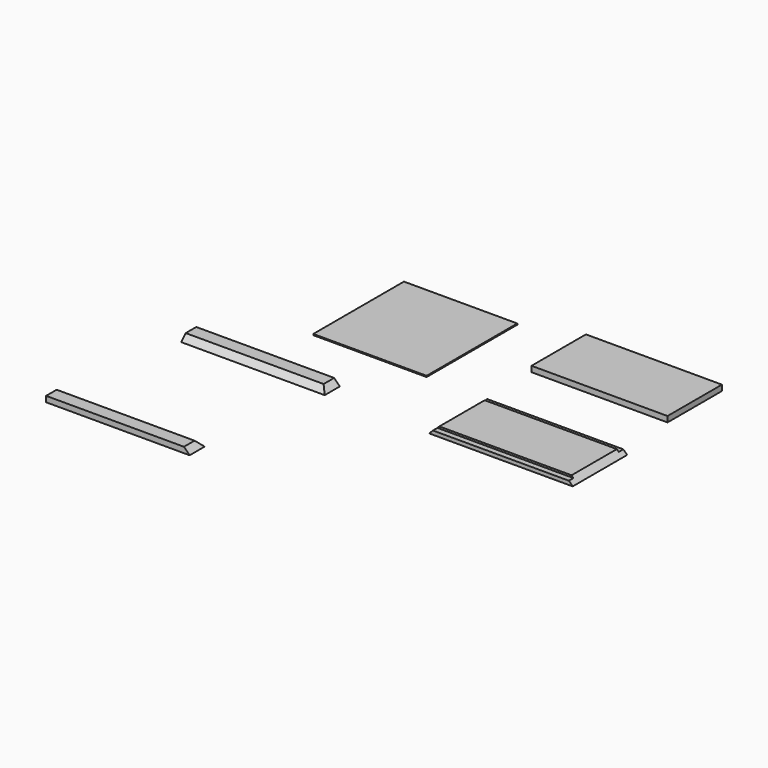
from build123d import *

# Parameters (mm, degrees)
F0_W      = 360
F0_H      = 180
F1_DEPTH  = 15
F2_W      = 350
F2_H      = 180
F3_DEPTH  = 15
F5_DEPTH  = 180
F6_W      = 350
F6_H      = 15
F6_W_2    = 38.8306975365
F6_W_3    = 75.8310049772
F7_DEPTH  = 5
F8_W      = 350
F8_H      = 15
F8_W_2    = 57.6145350933
F8_W_3    = 54.2813926935
F9_DEPTH  = 5
F10_W     = 300
F10_H     = 300
F11_DEPTH = 3
F12_W     = 380
F12_H     = 50
F13_DEPTH = 15
F15_DEPTH = 551
F17_DEPTH = 79
F18_W     = 380
F18_H     = 50
F19_DEPTH = 15
F21_DEPTH = 76
F23_DEPTH = 513.3


with BuildPart() as f1:
    # F0 (on Top) → F1 (new body)
    with BuildSketch(Plane.XY):
        with Locations((-75.4632055759, 83.1025231441)):
            Rectangle(F0_W, F0_H)
    extrude(amount=F1_DEPTH)


with BuildPart() as f3:
    # F2 (on Top) → F3 (new body)
    with BuildSketch(Plane.XY):
        with Locations((-59.6732020378, -262.903097868)):
            Rectangle(F2_W, F2_H)
    extrude(amount=F3_DEPTH)

    # F4 (on face) → F5 (join)
    with BuildSketch(Plane.XZ.offset(352.903097868)):
        Polygon((-249.6732020378, 0), (-234.6732020378, 0), (-234.6732020378, 15), align=None)
        Polygon((115.3267979622, 15), (115.3267979622, 0), (130.3267979622, 0), align=None)
    extrude(amount=-F5_DEPTH)

    # F6 (on face) → F7 (cut)
    with BuildSketch(Plane.XY.offset(15)):
        with Locations((-59.6732020378, -180.403097868)):
            Rectangle(F6_W, F6_H)
        with Locations((-254.088550806, -180.403097868)):
            Rectangle(F6_W_2, F6_H)
        with Locations((153.2423004508, -180.403097868)):
            Rectangle(F6_W_3, F6_H)
    extrude(amount=-F7_DEPTH, mode=Mode.SUBTRACT)

    # F8 (on face) → F9 (cut)
    with BuildSketch(Plane.XY.offset(15)):
        with Locations((-59.6732020378, -345.403097868)):
            Rectangle(F8_W, F8_H)
        with Locations((-263.4804695845, -345.403097868)):
            Rectangle(F8_W_2, F8_H)
        with Locations((142.4674943089, -345.403097868)):
            Rectangle(F8_W_3, F8_H)
    extrude(amount=-F9_DEPTH, mode=Mode.SUBTRACT)


with BuildPart() as f11:
    # F10 (on Top) → F11 (new body)
    with BuildSketch(Plane.XY):
        with Locations((-561.2048864365, -9.3687683344)):
            Rectangle(F10_W, F10_H)
    extrude(amount=F11_DEPTH)


with BuildPart() as f13:
    # F12 (on Top) → F13 (new body)
    with BuildSketch(Plane.XY):
        with Locations((-715.0434231758, -329.1367352009)):
            Rectangle(F12_W, F12_H)
    extrude(amount=F13_DEPTH)

    # F14 (on face) → F15 (cut)
    with BuildSketch(Plane.YZ.offset(-525.0434231758)):
        Polygon((-354.1367352009, 15), (-354.1367352009, 0), (-339.1367352009, 15), align=None)
    extrude(amount=-F15_DEPTH, mode=Mode.SUBTRACT)

    # F16 (on face) → F17 (cut)
    with BuildSketch(Plane(origin=(0, -304.1367352009, 0), x_dir=(-1, 0, 0), z_dir=(0, 1, 0))):
        Polygon((525.0434231758, 15), (525.0434231758, 0), (540.0434231758, 15), align=None)
    extrude(amount=-F17_DEPTH, mode=Mode.SUBTRACT)


with BuildPart() as f19:
    # F18 (on Top) → F19 (new body)
    with BuildSketch(Plane.XY):
        with Locations((-764.9335837364, -713.7545704842)):
            Rectangle(F18_W, F18_H)
    extrude(amount=F19_DEPTH)

    # F20 (on face) → F21 (cut)
    with BuildSketch(Plane(origin=(0, -688.7545704842, 0), x_dir=(-1, 0, 0), z_dir=(0, 1, 0))):
        Polygon((574.9335837364, 15), (574.9335837364, 0), (589.9335837364, 15), align=None)
    extrude(amount=-F21_DEPTH, mode=Mode.SUBTRACT)

    # F22 (on face) → F23 (cut)
    with BuildSketch(Plane(origin=(-954.9335837364, 0, 0), x_dir=(0, -1, 0), z_dir=(-1, 0, 0))):
        Polygon((688.7545704842, 15), (688.7545704842, 0), (703.7545704842, 15), align=None)
    extrude(amount=-F23_DEPTH, mode=Mode.SUBTRACT)


solid = Compound([f1.part, f3.part, f11.part, f13.part, f19.part])
